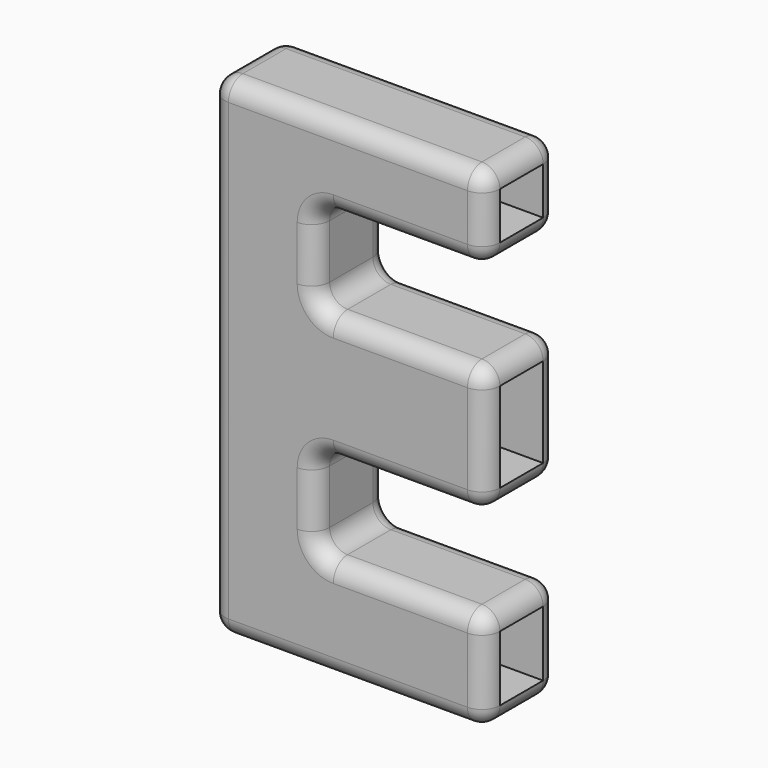
from build123d import *

# Parameters (mm, degrees)
F0_W     = 77.5483176112
F0_H     = 138.3502483368
F1_DEPTH = 25.4
F2_W     = 25.4
F2_H     = 25.4218988121
F3_DEPTH = 48.006
F4_R     = 5.08
F5_DEPTH = 50.8
F6_DEPTH = 50.8
F7_DEPTH = 50.8


with BuildPart() as f1:
    # F0 (on Front) → F1 (new body)
    with BuildSketch(Plane.XZ):
        with Locations((-29.2568616569, 0.0140890479)):
            Rectangle(F0_W, F0_H)
    extrude(amount=F1_DEPTH)

    # F2 (on face) → F3 (cut)
    with BuildSketch(Plane.YZ.offset(9.5172971487)):
        with Locations((-12.7, 33.0090541393)):
            Rectangle(F2_W, F2_H)
        with Locations((-12.7, -27.8852600604)):
            Rectangle(F2_W, F2_H)
    extrude(amount=-F3_DEPTH, mode=Mode.SUBTRACT)

    # F4
    f4_edges = [f1.edges().sort_by_distance(p)[0] for p in [
        (9.517297, -25.4, 57.454608),
        (-14.485703, -25.4, 45.720004),
        (-38.488703, -25.4, 33.009054),
        (-14.485703, -25.4, 20.298105),
        (9.517297, -25.4, 2.561897),
        (-14.485703, -25.4, -15.174311),
        (-38.488703, -25.4, -27.88526),
        (-14.485703, -25.4, -40.596209),
        (9.517297, -25.4, -54.878622),
        (-29.256862, -25.4, -69.161035),
        (-68.03102, -25.4, 0.014089),
        (-29.256862, -25.4, 69.189213),
        (9.517297, 0, 57.454608),
        (-14.485703, 0, 45.720004),
        (-38.488703, 0, 33.009054),
        (-14.485703, 0, 20.298105),
        (9.517297, 0, 2.561897),
        (-14.485703, 0, -15.174311),
        (-38.488703, 0, -27.88526),
        (-14.485703, 0, -40.596209),
        (9.517297, 0, -54.878622),
        (-29.256862, 0, -69.161035),
        (-68.03102, 0, 0.014089),
        (-29.256862, 0, 69.189213),
        (-68.03102, -12.7, 69.189213),
        (-68.03102, -12.7, -69.161035),
        (9.517297, -12.7, 69.189213),
        (9.517297, -12.7, 45.720004),
        (-38.488703, -12.7, 45.720004),
        (9.517297, -12.7, -15.174311),
        (-38.488703, -12.7, -15.174311),
        (9.517297, -12.7, 20.298105),
        (-38.488703, -12.7, 20.298105),
        (9.517297, -12.7, -69.161035),
        (9.517297, -12.7, -40.596209),
        (-38.488703, -12.7, -40.596209),
    ]]
    fillet(f4_edges, radius=F4_R)

    # F5 (cut): a face of the model
    f5_faces = [f1.faces().sort_by_distance(p)[0] for p in [
        (9.5172971487, -12.7, 57.4546083808),
    ]]
    extrude(f5_faces, amount=-F5_DEPTH, mode=Mode.SUBTRACT)

    # F6 (cut): a face of the model
    f6_faces = [f1.faces().sort_by_distance(p)[0] for p in [
        (9.5172971487, -12.7, 2.5618970394),
    ]]
    extrude(f6_faces, amount=-F6_DEPTH, mode=Mode.SUBTRACT)

    # F7 (cut): a face of the model
    f7_faces = [f1.faces().sort_by_distance(p)[0] for p in [
        (9.5172971487, -12.7, -54.8786222935),
    ]]
    extrude(f7_faces, amount=-F7_DEPTH, mode=Mode.SUBTRACT)


solid = f1.part
